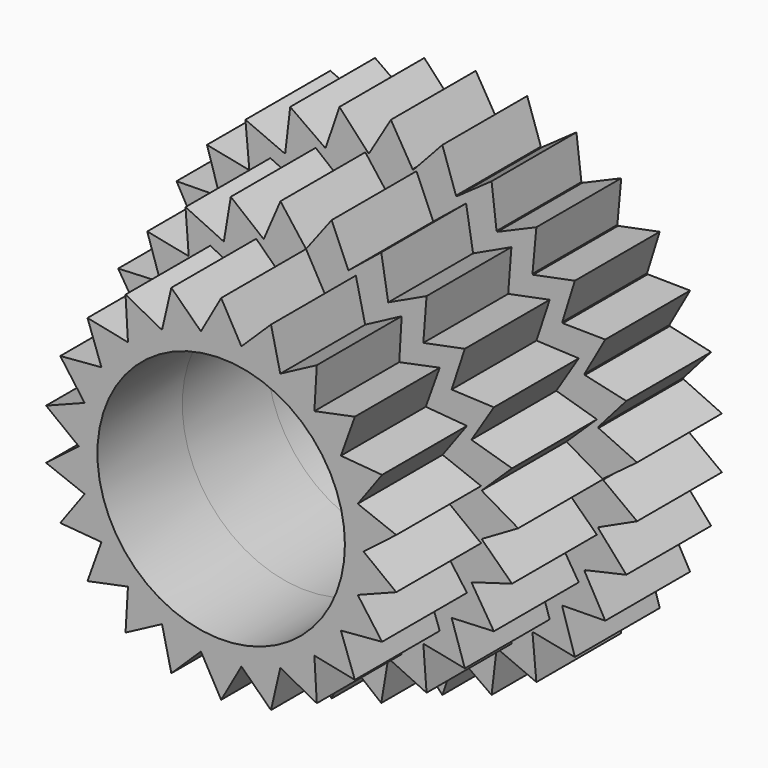
from build123d import *

# Parameters (mm, degrees)
F1_DEPTH = 3
F3_DEPTH = 3
F5_DEPTH = 3
F6_R     = 3.5
F7_DEPTH = 25


with BuildPart() as f1:
    # F0 (on Front) → F1 (new body)
    with BuildSketch(Plane.XZ):
        with BuildLine():
            ThreePointArc((5.9999838283, -0.0139305548), (5.9999959571, -0.0069652821), (6, 0))
            ThreePointArc((6, 0), (5.9999959571, 0.0069652821), (5.9999838283, 0.0139305548))
            ThreePointArc((5.9999838283, 0.0139305548), (5.9671313722, 0.6271707796), (5.8717661113, 1.2338406438))
            ThreePointArc((5.8717661113, 1.2338406438), (5.8688856044, 1.2474701449), (5.8659734609, 1.2610929214))
            ThreePointArc((5.8659734609, 1.2610929214), (5.7063390978, 1.8541019662), (5.4869240394, 2.4276870857))
            ThreePointArc((5.4869240394, 2.4276870857), (5.4812727459, 2.4404198585), (5.4755919051, 2.4531394759))
            ThreePointArc((5.4755919051, 2.4531394759), (5.1961524227, 3), (4.8622770577, 3.5154319527))
            ThreePointArc((4.8622770577, 3.5154319527), (4.8541019662, 3.5267115138), (4.8459007084, 3.5379720639))
            ThreePointArc((4.8459007084, 3.5379720639), (4.4588689529, 4.0147836382), (4.0251252369, 4.4495355743))
            ThreePointArc((4.0251252369, 4.4495355743), (4.0147836382, 4.4588689529), (4.0044203974, 4.4681782955))
            ThreePointArc((4.0044203974, 4.4681782955), (3.5267115138, 4.8541019662), (3.0120561285, 5.1891731402))
            ThreePointArc((3.0120561285, 5.1891731402), (3, 5.1961524227), (2.9879276998, 5.203103695))
            ThreePointArc((2.9879276998, 5.203103695), (2.4404198585, 5.4812727459), (1.8673457139, 5.7020189394))
            ThreePointArc((1.8673457139, 5.7020189394), (1.8541019662, 5.7063390978), (1.840848224, 5.7106284957))
            ThreePointArc((1.840848224, 5.7106284957), (1.2474701449, 5.8688856044), (0.641023331, 5.9656591496))
            ThreePointArc((0.641023331, 5.9656591496), (0.6271707796, 5.9671313722), (0.6133148474, 5.9685714286))
            ThreePointArc((0.6133148474, 5.9685714286), (0, 6), (-0.6133148474, 5.9685714286))
            ThreePointArc((-0.6133148474, 5.9685714286), (-0.6271707796, 5.9671313722), (-0.641023331, 5.9656591496))
            ThreePointArc((-0.641023331, 5.9656591496), (-1.2474701449, 5.8688856044), (-1.840848224, 5.7106284957))
            ThreePointArc((-1.840848224, 5.7106284957), (-1.8541019662, 5.7063390978), (-1.8673457139, 5.7020189394))
            ThreePointArc((-1.8673457139, 5.7020189394), (-2.4404198585, 5.4812727459), (-2.9879276998, 5.203103695))
            ThreePointArc((-2.9879276998, 5.203103695), (-3, 5.1961524227), (-3.0120561285, 5.1891731402))
            ThreePointArc((-3.0120561285, 5.1891731402), (-3.5267115138, 4.8541019662), (-4.0044203974, 4.4681782955))
            ThreePointArc((-4.0044203974, 4.4681782955), (-4.0147836382, 4.4588689529), (-4.0251252369, 4.4495355743))
            ThreePointArc((-4.0251252369, 4.4495355743), (-4.4588689529, 4.0147836382), (-4.8459007084, 3.5379720639))
            ThreePointArc((-4.8459007084, 3.5379720639), (-4.8541019662, 3.5267115138), (-4.8622770577, 3.5154319527))
            ThreePointArc((-4.8622770577, 3.5154319527), (-5.1961524227, 3), (-5.4755919051, 2.4531394759))
            ThreePointArc((-5.4755919051, 2.4531394759), (-5.4812727459, 2.4404198585), (-5.4869240394, 2.4276870857))
            ThreePointArc((-5.4869240394, 2.4276870857), (-5.7063390978, 1.8541019662), (-5.8659734609, 1.2610929214))
            ThreePointArc((-5.8659734609, 1.2610929214), (-5.8688856044, 1.2474701449), (-5.8717661113, 1.2338406438))
            ThreePointArc((-5.8717661113, 1.2338406438), (-5.9671313722, 0.6271707796), (-5.9999838283, 0.0139305548))
            ThreePointArc((-5.9999838283, 0.0139305548), (-6, 0), (-5.9999838283, -0.0139305548))
            ThreePointArc((-5.9999838283, -0.0139305548), (-5.9671313722, -0.6271707796), (-5.8717661113, -1.2338406438))
            ThreePointArc((-5.8717661113, -1.2338406438), (-5.8688856044, -1.2474701449), (-5.8659734609, -1.2610929214))
            ThreePointArc((-5.8659734609, -1.2610929214), (-5.7063390978, -1.8541019662), (-5.4869240394, -2.4276870857))
            ThreePointArc((-5.4869240394, -2.4276870857), (-5.4812727459, -2.4404198585), (-5.4755919051, -2.4531394759))
            ThreePointArc((-5.4755919051, -2.4531394759), (-5.1961524227, -3), (-4.8622770577, -3.5154319527))
            ThreePointArc((-4.8622770577, -3.5154319527), (-4.8541019662, -3.5267115138), (-4.8459007084, -3.5379720639))
            ThreePointArc((-4.8459007084, -3.5379720639), (-4.4588689529, -4.0147836382), (-4.0251252369, -4.4495355743))
            ThreePointArc((-4.0251252369, -4.4495355743), (-4.0147836382, -4.4588689529), (-4.0044203974, -4.4681782955))
            ThreePointArc((-4.0044203974, -4.4681782955), (-3.5267115138, -4.8541019662), (-3.0120561285, -5.1891731402))
            ThreePointArc((-3.0120561285, -5.1891731402), (-3, -5.1961524227), (-2.9879276998, -5.203103695))
            ThreePointArc((-2.9879276998, -5.203103695), (-2.4404198585, -5.4812727459), (-1.8673457139, -5.7020189394))
            ThreePointArc((-1.8673457139, -5.7020189394), (-1.8541019662, -5.7063390978), (-1.840848224, -5.7106284957))
            ThreePointArc((-1.840848224, -5.7106284957), (-1.2474701449, -5.8688856044), (-0.641023331, -5.9656591496))
            ThreePointArc((-0.641023331, -5.9656591496), (-0.6271707796, -5.9671313722), (-0.6133148474, -5.9685714286))
            ThreePointArc((-0.6133148474, -5.9685714286), (0, -6), (0.6133148474, -5.9685714286))
            ThreePointArc((0.6133148474, -5.9685714286), (0.6271707796, -5.9671313722), (0.641023331, -5.9656591496))
            ThreePointArc((0.641023331, -5.9656591496), (1.2474701449, -5.8688856044), (1.840848224, -5.7106284957))
            ThreePointArc((1.840848224, -5.7106284957), (1.8541019662, -5.7063390978), (1.8673457139, -5.7020189394))
            ThreePointArc((1.8673457139, -5.7020189394), (2.4404198585, -5.4812727459), (2.9879276998, -5.203103695))
            ThreePointArc((2.9879276998, -5.203103695), (3, -5.1961524227), (3.0120561285, -5.1891731402))
            ThreePointArc((3.0120561285, -5.1891731402), (3.5267115138, -4.8541019662), (4.0044203974, -4.4681782955))
            ThreePointArc((4.0044203974, -4.4681782955), (4.0147836382, -4.4588689529), (4.0251252369, -4.4495355743))
            ThreePointArc((4.0251252369, -4.4495355743), (4.4588689529, -4.0147836382), (4.8459007084, -3.5379720639))
            ThreePointArc((4.8459007084, -3.5379720639), (4.8541019662, -3.5267115138), (4.8622770577, -3.5154319527))
            ThreePointArc((4.8622770577, -3.5154319527), (5.1961524227, -3), (5.4755919051, -2.4531394759))
            ThreePointArc((5.4755919051, -2.4531394759), (5.4812727459, -2.4404198585), (5.4869240394, -2.4276870857))
            ThreePointArc((5.4869240394, -2.4276870857), (5.7063390978, -1.8541019662), (5.8659734609, -1.2610929214))
            ThreePointArc((5.8659734609, -1.2610929214), (5.8688856044, -1.2474701449), (5.8717661113, -1.2338406438))
            ThreePointArc((5.8717661113, -1.2338406438), (5.9671313722, -0.6271707796), (5.9999838283, -0.0139305548))
        make_face()
        with BuildLine():
            ThreePointArc((5.8717661113, 1.2338406438), (5.9671313722, 0.6271707796), (5.9999838283, 0.0139305548))
            Line((5.9999838283, 0.0139305548), (6.9616532676, 0.7316992429))
            Line((6.9616532676, 0.7316992429), (5.8717661113, 1.2338406438))
        make_face()
        with BuildLine():
            Line((6.9616532676, -0.7316992429), (5.9999838283, -0.0139305548))
            ThreePointArc((5.9999838283, -0.0139305548), (5.9671313722, -0.6271707796), (5.8717661113, -1.2338406438))
            Line((5.8717661113, -1.2338406438), (6.9616532676, -0.7316992429))
        make_face()
        with BuildLine():
            ThreePointArc((5.4869240394, 2.4276870857), (5.7063390978, 1.8541019662), (5.8659734609, 1.2610929214))
            Line((5.8659734609, 1.2610929214), (6.6573956141, 2.1631189606))
            Line((6.6573956141, 2.1631189606), (5.4869240394, 2.4276870857))
        make_face()
        with BuildLine():
            Line((6.6573956141, -2.1631189606), (5.8659734609, -1.2610929214))
            ThreePointArc((5.8659734609, -1.2610929214), (5.7063390978, -1.8541019662), (5.4869240394, -2.4276870857))
            Line((5.4869240394, -2.4276870857), (6.6573956141, -2.1631189606))
        make_face()
        with BuildLine():
            ThreePointArc((4.8622770577, 3.5154319527), (5.1961524227, 3), (5.4755919051, 2.4531394759))
            Line((5.4755919051, 2.4531394759), (6.0621778265, 3.5))
            Line((6.0621778265, 3.5), (4.8622770577, 3.5154319527))
        make_face()
        with BuildLine():
            Line((6.0621778265, -3.5), (5.4755919051, -2.4531394759))
            ThreePointArc((5.4755919051, -2.4531394759), (5.1961524227, -3), (4.8622770577, -3.5154319527))
            Line((4.8622770577, -3.5154319527), (6.0621778265, -3.5))
        make_face()
        with BuildLine():
            ThreePointArc((4.0251252369, 4.4495355743), (4.4588689529, 4.0147836382), (4.8459007084, 3.5379720639))
            Line((4.8459007084, 3.5379720639), (5.2020137783, 4.6839142445))
            Line((5.2020137783, 4.6839142445), (4.0251252369, 4.4495355743))
        make_face()
        with BuildLine():
            Line((5.2020137783, -4.6839142445), (4.8459007084, -3.5379720639))
            ThreePointArc((4.8459007084, -3.5379720639), (4.4588689529, -4.0147836382), (4.0251252369, -4.4495355743))
            Line((4.0251252369, -4.4495355743), (5.2020137783, -4.6839142445))
        make_face()
        with BuildLine():
            ThreePointArc((3.0120561285, 5.1891731402), (3.5267115138, 4.8541019662), (4.0044203974, 4.4681782955))
            Line((4.0044203974, 4.4681782955), (4.114496766, 5.6631189606))
            Line((4.114496766, 5.6631189606), (3.0120561285, 5.1891731402))
        make_face()
        with BuildLine():
            Line((4.114496766, -5.6631189606), (4.0044203974, -4.4681782955))
            ThreePointArc((4.0044203974, -4.4681782955), (3.5267115138, -4.8541019662), (3.0120561285, -5.1891731402))
            Line((3.0120561285, -5.1891731402), (4.114496766, -5.6631189606))
        make_face()
        with BuildLine():
            ThreePointArc((1.8673457139, 5.7020189394), (2.4404198585, 5.4812727459), (2.9879276998, 5.203103695))
            Line((2.9879276998, 5.203103695), (2.8471565015, 6.3948182035))
            Line((2.8471565015, 6.3948182035), (1.8673457139, 5.7020189394))
        make_face()
        with BuildLine():
            Line((2.8471565015, -6.3948182035), (2.9879276998, -5.203103695))
            ThreePointArc((2.9879276998, -5.203103695), (2.4404198585, -5.4812727459), (1.8673457139, -5.7020189394))
            Line((1.8673457139, -5.7020189394), (2.8471565015, -6.3948182035))
        make_face()
        with BuildLine():
            ThreePointArc((0.641023331, 5.9656591496), (1.2474701449, 5.8688856044), (1.840848224, 5.7106284957))
            Line((1.840848224, 5.7106284957), (1.4553818357, 6.8470332051))
            Line((1.4553818357, 6.8470332051), (0.641023331, 5.9656591496))
        make_face()
        with BuildLine():
            Line((1.4553818357, -6.8470332051), (1.840848224, -5.7106284957))
            ThreePointArc((1.840848224, -5.7106284957), (1.2474701449, -5.8688856044), (0.641023331, -5.9656591496))
            Line((0.641023331, -5.9656591496), (1.4553818357, -6.8470332051))
        make_face()
        with BuildLine():
            ThreePointArc((-0.6133148474, 5.9685714286), (0, 6), (0.6133148474, 5.9685714286))
            Line((0.6133148474, 5.9685714286), (0, 7))
            Line((0, 7), (-0.6133148474, 5.9685714286))
        make_face()
        with BuildLine():
            Line((0, -7), (0.6133148474, -5.9685714286))
            ThreePointArc((0.6133148474, -5.9685714286), (0, -6), (-0.6133148474, -5.9685714286))
            Line((-0.6133148474, -5.9685714286), (0, -7))
        make_face()
        with BuildLine():
            ThreePointArc((-1.840848224, 5.7106284957), (-1.2474701449, 5.8688856044), (-0.641023331, 5.9656591496))
            Line((-0.641023331, 5.9656591496), (-1.4553818357, 6.8470332051))
            Line((-1.4553818357, 6.8470332051), (-1.840848224, 5.7106284957))
        make_face()
        with BuildLine():
            Line((-1.4553818357, -6.8470332051), (-0.641023331, -5.9656591496))
            ThreePointArc((-0.641023331, -5.9656591496), (-1.2474701449, -5.8688856044), (-1.840848224, -5.7106284957))
            Line((-1.840848224, -5.7106284957), (-1.4553818357, -6.8470332051))
        make_face()
        with BuildLine():
            ThreePointArc((-2.9879276998, 5.203103695), (-2.4404198585, 5.4812727459), (-1.8673457139, 5.7020189394))
            Line((-1.8673457139, 5.7020189394), (-2.8471565015, 6.3948182035))
            Line((-2.8471565015, 6.3948182035), (-2.9879276998, 5.203103695))
        make_face()
        with BuildLine():
            Line((-2.8471565015, -6.3948182035), (-1.8673457139, -5.7020189394))
            ThreePointArc((-1.8673457139, -5.7020189394), (-2.4404198585, -5.4812727459), (-2.9879276998, -5.203103695))
            Line((-2.9879276998, -5.203103695), (-2.8471565015, -6.3948182035))
        make_face()
        with BuildLine():
            ThreePointArc((-4.0044203974, 4.4681782955), (-3.5267115138, 4.8541019662), (-3.0120561285, 5.1891731402))
            Line((-3.0120561285, 5.1891731402), (-4.114496766, 5.6631189606))
            Line((-4.114496766, 5.6631189606), (-4.0044203974, 4.4681782955))
        make_face()
        with BuildLine():
            Line((-4.114496766, -5.6631189606), (-3.0120561285, -5.1891731402))
            ThreePointArc((-3.0120561285, -5.1891731402), (-3.5267115138, -4.8541019662), (-4.0044203974, -4.4681782955))
            Line((-4.0044203974, -4.4681782955), (-4.114496766, -5.6631189606))
        make_face()
        with BuildLine():
            ThreePointArc((-4.8459007084, 3.5379720639), (-4.4588689529, 4.0147836382), (-4.0251252369, 4.4495355743))
            Line((-4.0251252369, 4.4495355743), (-5.2020137783, 4.6839142445))
            Line((-5.2020137783, 4.6839142445), (-4.8459007084, 3.5379720639))
        make_face()
        with BuildLine():
            Line((-5.2020137783, -4.6839142445), (-4.0251252369, -4.4495355743))
            ThreePointArc((-4.0251252369, -4.4495355743), (-4.4588689529, -4.0147836382), (-4.8459007084, -3.5379720639))
            Line((-4.8459007084, -3.5379720639), (-5.2020137783, -4.6839142445))
        make_face()
        with BuildLine():
            ThreePointArc((-5.4755919051, 2.4531394759), (-5.1961524227, 3), (-4.8622770577, 3.5154319527))
            Line((-4.8622770577, 3.5154319527), (-6.0621778265, 3.5))
            Line((-6.0621778265, 3.5), (-5.4755919051, 2.4531394759))
        make_face()
        with BuildLine():
            Line((-6.0621778265, -3.5), (-4.8622770577, -3.5154319527))
            ThreePointArc((-4.8622770577, -3.5154319527), (-5.1961524227, -3), (-5.4755919051, -2.4531394759))
            Line((-5.4755919051, -2.4531394759), (-6.0621778265, -3.5))
        make_face()
        with BuildLine():
            ThreePointArc((-5.8659734609, 1.2610929214), (-5.7063390978, 1.8541019662), (-5.4869240394, 2.4276870857))
            Line((-5.4869240394, 2.4276870857), (-6.6573956141, 2.1631189606))
            Line((-6.6573956141, 2.1631189606), (-5.8659734609, 1.2610929214))
        make_face()
        with BuildLine():
            Line((-6.6573956141, -2.1631189606), (-5.4869240394, -2.4276870857))
            ThreePointArc((-5.4869240394, -2.4276870857), (-5.7063390978, -1.8541019662), (-5.8659734609, -1.2610929214))
            Line((-5.8659734609, -1.2610929214), (-6.6573956141, -2.1631189606))
        make_face()
        with BuildLine():
            ThreePointArc((-5.9999838283, 0.0139305548), (-5.9671313722, 0.6271707796), (-5.8717661113, 1.2338406438))
            Line((-5.8717661113, 1.2338406438), (-6.9616532676, 0.7316992429))
            Line((-6.9616532676, 0.7316992429), (-5.9999838283, 0.0139305548))
        make_face()
        with BuildLine():
            Line((-6.9616532676, -0.7316992429), (-5.8717661113, -1.2338406438))
            ThreePointArc((-5.8717661113, -1.2338406438), (-5.9671313722, -0.6271707796), (-5.9999838283, -0.0139305548))
            Line((-5.9999838283, -0.0139305548), (-6.9616532676, -0.7316992429))
        make_face()
    extrude(amount=F1_DEPTH)


with BuildPart() as f3:
    # F2 (on face) → F3 (new body)
    with BuildSketch(Plane.XZ.offset(3)):
        with BuildLine():
            ThreePointArc((4.9637548008, 0.600947816), (4.9909304746, 0.3010199296), (5, 0))
            ThreePointArc((5, 0), (4.9909304746, -0.3010199296), (4.9637548008, -0.600947816))
            Line((4.9637548008, -0.600947816), (4.9658333039, -0.6029613281))
            Line((4.9658333039, -0.6029613281), (6, 0))
            Line((6, 0), (4.9658333039, 0.6029613281))
            Line((4.9658333039, 0.6029613281), (4.9637548008, 0.600947816))
        make_face()
        with BuildLine():
            ThreePointArc((4.9633333333, 0.6044189129), (4.9635443705, 0.6026834013), (4.9637548008, 0.600947816))
            Line((4.9637548008, 0.600947816), (4.9658333039, 0.6029613281))
            Line((4.9658333039, 0.6029613281), (4.9633333333, 0.6044189129))
        make_face()
        with BuildLine():
            Line((4.9658333039, -0.6029613281), (4.9637548008, -0.600947816))
            ThreePointArc((4.9637548008, -0.600947816), (4.9635443705, -0.6026834013), (4.9633333333, -0.6044189129))
            Line((4.9633333333, -0.6044189129), (4.9658333039, -0.6029613281))
        make_face()
        with BuildLine():
            ThreePointArc((4.6757008818, 1.7713896422), (4.8547090871, 1.1965783214), (4.9633333333, 0.6044189129))
            Line((4.9633333333, 0.6044189129), (4.9658333039, 0.6029613281))
            Line((4.9658333039, 0.6029613281), (5.8256509046, 1.4358939857))
            Line((5.8256509046, 1.4358939857), (4.6772371224, 1.7738420636))
            Line((4.6772371224, 1.7738420636), (4.6757008818, 1.7713896422))
        make_face()
        with BuildLine():
            Line((4.9658333039, -0.6029613281), (4.9633333333, -0.6044189129))
            ThreePointArc((4.9633333333, -0.6044189129), (4.8547090871, -1.1965783214), (4.6757008818, -1.7713896422))
            Line((4.6757008818, -1.7713896422), (4.6772371224, -1.7738420636))
            Line((4.6772371224, -1.7738420636), (5.8256509046, -1.4358939857))
            Line((5.8256509046, -1.4358939857), (4.9658333039, -0.6029613281))
        make_face()
        with BuildLine():
            ThreePointArc((4.6744609735, 1.7746590115), (4.6750812134, 1.7730244352), (4.6757008818, 1.7713896422))
            Line((4.6757008818, 1.7713896422), (4.6772371224, 1.7738420636))
            Line((4.6772371224, 1.7738420636), (4.6744609735, 1.7746590115))
        make_face()
        with BuildLine():
            Line((4.6772371224, -1.7738420636), (4.6757008818, -1.7713896422))
            ThreePointArc((4.6757008818, -1.7713896422), (4.6750812134, -1.7730244352), (4.6744609735, -1.7746590115))
            Line((4.6744609735, -1.7746590115), (4.6772371224, -1.7738420636))
        make_face()
        with BuildLine():
            ThreePointArc((4.1159122229, 2.8388847411), (4.4272801283, 2.3236158602), (4.6744609735, 1.7746590115))
            Line((4.6744609735, 1.7746590115), (4.6772371224, 1.7738420636))
            Line((4.6772371224, 1.7738420636), (5.3127361539, 2.7883390323))
            Line((5.3127361539, 2.7883390323), (4.1168169203, 2.8416335461))
            Line((4.1168169203, 2.8416335461), (4.1159122229, 2.8388847411))
        make_face()
        with BuildLine():
            Line((4.6772371224, -1.7738420636), (4.6744609735, -1.7746590115))
            ThreePointArc((4.6744609735, -1.7746590115), (4.4272801283, -2.3236158602), (4.1159122229, -2.8388847411))
            Line((4.1159122229, -2.8388847411), (4.1168169203, -2.8416335461))
            Line((4.1168169203, -2.8416335461), (5.3127361539, -2.7883390323))
            Line((5.3127361539, -2.7883390323), (4.6772371224, -1.7738420636))
        make_face()
        with BuildLine():
            ThreePointArc((4.1139259329, 2.841762379), (4.1149193295, 2.8403237337), (4.1159122229, 2.8388847411))
            Line((4.1159122229, 2.8388847411), (4.1168169203, 2.8416335461))
            Line((4.1168169203, 2.8416335461), (4.1139259329, 2.841762379))
        make_face()
        with BuildLine():
            Line((4.1168169203, -2.8416335461), (4.1159122229, -2.8388847411))
            ThreePointArc((4.1159122229, -2.8388847411), (4.1149193295, -2.8403237337), (4.1139259329, -2.841762379))
            Line((4.1139259329, -2.841762379), (4.1168169203, -2.8416335461))
        make_face()
        with BuildLine():
            ThreePointArc((3.3169217065, 3.7413941777), (3.7425537409, 3.3156132912), (4.1139259329, 2.841762379))
            Line((4.1139259329, 2.841762379), (4.1168169203, 2.8416335461))
            Line((4.1168169203, 2.8416335461), (4.491064489, 3.9787359494))
            Line((4.491064489, 3.9787359494), (3.3171422829, 3.7442796157))
            Line((3.3171422829, 3.7442796157), (3.3169217065, 3.7413941777))
        make_face()
        with BuildLine():
            Line((4.1168169203, -2.8416335461), (4.1139259329, -2.841762379))
            ThreePointArc((4.1139259329, -2.841762379), (3.7425537409, -3.3156132912), (3.3169217065, -3.7413941777))
            Line((3.3169217065, -3.7413941777), (3.3171422829, -3.7442796157))
            Line((3.3171422829, -3.7442796157), (4.491064489, -3.9787359494))
            Line((4.491064489, -3.9787359494), (4.1168169203, -2.8416335461))
        make_face()
        with BuildLine():
            ThreePointArc((3.3143044706, 3.7437128464), (3.3156132912, 3.7425537409), (3.3169217065, 3.7413941777))
            Line((3.3169217065, 3.7413941777), (3.3171422829, 3.7442796157))
            Line((3.3171422829, 3.7442796157), (3.3143044706, 3.7437128464))
        make_face()
        with BuildLine():
            Line((3.3171422829, -3.7442796157), (3.3169217065, -3.7413941777))
            ThreePointArc((3.3169217065, -3.7413941777), (3.3156132912, -3.7425537409), (3.3143044706, -3.7437128464))
            Line((3.3143044706, -3.7437128464), (3.3171422829, -3.7442796157))
        make_face()
        with BuildLine():
            ThreePointArc((2.3251637569, 4.4264673842), (2.8403237337, 4.1149193295), (3.3143044706, 3.7437128464))
            Line((3.3143044706, 3.7437128464), (3.3171422829, 3.7442796157))
            Line((3.3171422829, 3.7442796157), (3.4083884804, 4.9379031954))
            Line((3.4083884804, 4.9379031954), (2.3246873933, 4.429321764))
            Line((2.3246873933, 4.429321764), (2.3251637569, 4.4264673842))
        make_face()
        with BuildLine():
            Line((3.3171422829, -3.7442796157), (3.3143044706, -3.7437128464))
            ThreePointArc((3.3143044706, -3.7437128464), (2.8403237337, -4.1149193295), (2.3251637569, -4.4264673842))
            Line((2.3251637569, -4.4264673842), (2.3246873933, -4.429321764))
            Line((2.3246873933, -4.429321764), (3.4083884804, -4.9379031954))
            Line((3.4083884804, -4.9379031954), (3.3171422829, -3.7442796157))
        make_face()
        with BuildLine():
            ThreePointArc((2.3220676794, 4.428092331), (2.3236158602, 4.4272801283), (2.3251637569, 4.4264673842))
            Line((2.3251637569, 4.4264673842), (2.3246873933, 4.429321764))
            Line((2.3246873933, 4.429321764), (2.3220676794, 4.428092331))
        make_face()
        with BuildLine():
            Line((2.3246873933, -4.429321764), (2.3251637569, -4.4264673842))
            ThreePointArc((2.3251637569, -4.4264673842), (2.3236158602, -4.4272801283), (2.3220676794, -4.428092331))
            Line((2.3220676794, -4.428092331), (2.3246873933, -4.429321764))
        make_face()
        with BuildLine():
            ThreePointArc((1.1982757415, 4.8542903959), (1.7730244352, 4.6750812134), (2.3220676794, 4.428092331))
            Line((2.3220676794, 4.428092331), (2.3246873933, 4.429321764))
            Line((2.3246873933, 4.429321764), (2.1276293223, 5.6100974561))
            Line((2.1276293223, 5.6100974561), (1.1971301223, 4.8569478313))
            Line((1.1971301223, 4.8569478313), (1.1982757415, 4.8542903959))
        make_face()
        with BuildLine():
            Line((2.3246873933, -4.429321764), (2.3220676794, -4.428092331))
            ThreePointArc((2.3220676794, -4.428092331), (1.7730244352, -4.6750812134), (1.1982757415, -4.8542903959))
            Line((1.1982757415, -4.8542903959), (1.1971301223, -4.8569478313))
            Line((1.1971301223, -4.8569478313), (2.1276293223, -5.6100974561))
            Line((2.1276293223, -5.6100974561), (2.3246873933, -4.429321764))
        make_face()
        with BuildLine():
            ThreePointArc((1.1948807551, 4.8551271848), (1.1965783214, 4.8547090871), (1.1982757415, 4.8542903959))
            Line((1.1982757415, 4.8542903959), (1.1971301223, 4.8569478313))
            Line((1.1971301223, 4.8569478313), (1.1948807551, 4.8551271848))
        make_face()
        with BuildLine():
            Line((1.1971301223, -4.8569478313), (1.1982757415, -4.8542903959))
            ThreePointArc((1.1982757415, -4.8542903959), (1.1965783214, -4.8547090871), (1.1948807551, -4.8551271848))
            Line((1.1948807551, -4.8551271848), (1.1971301223, -4.8569478313))
        make_face()
        with BuildLine():
            ThreePointArc((0.0017482955, 4.9999996943), (0.6026834013, 4.9635443705), (1.1948807551, 4.8551271848))
            Line((1.1948807551, 4.8551271848), (1.1971301223, 4.8569478313))
            Line((1.1971301223, 4.8569478313), (0.7232200815, 5.9562532446))
            Line((0.7232200815, 5.9562532446), (0, 5.0023057449))
            Line((0, 5.0023057449), (0.0017482955, 4.9999996943))
        make_face()
        with BuildLine():
            Line((1.1971301223, -4.8569478313), (1.1948807551, -4.8551271848))
            ThreePointArc((1.1948807551, -4.8551271848), (0.6026834013, -4.9635443705), (0.0017482955, -4.9999996943))
            Line((0.0017482955, -4.9999996943), (0, -5.0023057449))
            Line((0, -5.0023057449), (0.7232200815, -5.9562532446))
            Line((0.7232200815, -5.9562532446), (1.1971301223, -4.8569478313))
        make_face()
        with BuildLine():
            ThreePointArc((-0.0017482955, 4.9999996943), (0, 5), (0.0017482955, 4.9999996943))
            Line((0.0017482955, 4.9999996943), (0, 5.0023057449))
            Line((0, 5.0023057449), (-0.0017482955, 4.9999996943))
        make_face()
        with BuildLine():
            Line((0, -5.0023057449), (0.0017482955, -4.9999996943))
            ThreePointArc((0.0017482955, -4.9999996943), (0, -5), (-0.0017482955, -4.9999996943))
            Line((-0.0017482955, -4.9999996943), (0, -5.0023057449))
        make_face()
        with BuildLine():
            ThreePointArc((-1.1948807551, 4.8551271848), (-0.6026834013, 4.9635443705), (-0.0017482955, 4.9999996943))
            Line((-0.0017482955, 4.9999996943), (0, 5.0023057449))
            Line((0, 5.0023057449), (-0.7232200815, 5.9562532446))
            Line((-0.7232200815, 5.9562532446), (-1.1971301223, 4.8569478313))
            Line((-1.1971301223, 4.8569478313), (-1.1948807551, 4.8551271848))
        make_face()
        with BuildLine():
            Line((0, -5.0023057449), (-0.0017482955, -4.9999996943))
            ThreePointArc((-0.0017482955, -4.9999996943), (-0.6026834013, -4.9635443705), (-1.1948807551, -4.8551271848))
            Line((-1.1948807551, -4.8551271848), (-1.1971301223, -4.8569478313))
            Line((-1.1971301223, -4.8569478313), (-0.7232200815, -5.9562532446))
            Line((-0.7232200815, -5.9562532446), (0, -5.0023057449))
        make_face()
        with BuildLine():
            ThreePointArc((-1.1982757415, 4.8542903959), (-1.1965783214, 4.8547090871), (-1.1948807551, 4.8551271848))
            Line((-1.1948807551, 4.8551271848), (-1.1971301223, 4.8569478313))
            Line((-1.1971301223, 4.8569478313), (-1.1982757415, 4.8542903959))
        make_face()
        with BuildLine():
            Line((-1.1971301223, -4.8569478313), (-1.1948807551, -4.8551271848))
            ThreePointArc((-1.1948807551, -4.8551271848), (-1.1965783214, -4.8547090871), (-1.1982757415, -4.8542903959))
            Line((-1.1982757415, -4.8542903959), (-1.1971301223, -4.8569478313))
        make_face()
        with BuildLine():
            ThreePointArc((-2.3220676794, 4.428092331), (-1.7730244352, 4.6750812134), (-1.1982757415, 4.8542903959))
            Line((-1.1982757415, 4.8542903959), (-1.1971301223, 4.8569478313))
            Line((-1.1971301223, 4.8569478313), (-2.1276293223, 5.6100974561))
            Line((-2.1276293223, 5.6100974561), (-2.3246873933, 4.429321764))
            Line((-2.3246873933, 4.429321764), (-2.3220676794, 4.428092331))
        make_face()
        with BuildLine():
            Line((-1.1971301223, -4.8569478313), (-1.1982757415, -4.8542903959))
            ThreePointArc((-1.1982757415, -4.8542903959), (-1.7730244352, -4.6750812134), (-2.3220676794, -4.428092331))
            Line((-2.3220676794, -4.428092331), (-2.3246873933, -4.429321764))
            Line((-2.3246873933, -4.429321764), (-2.1276293223, -5.6100974561))
            Line((-2.1276293223, -5.6100974561), (-1.1971301223, -4.8569478313))
        make_face()
        with BuildLine():
            ThreePointArc((-2.3251637569, 4.4264673842), (-2.3236158602, 4.4272801283), (-2.3220676794, 4.428092331))
            Line((-2.3220676794, 4.428092331), (-2.3246873933, 4.429321764))
            Line((-2.3246873933, 4.429321764), (-2.3251637569, 4.4264673842))
        make_face()
        with BuildLine():
            Line((-2.3246873933, -4.429321764), (-2.3220676794, -4.428092331))
            ThreePointArc((-2.3220676794, -4.428092331), (-2.3236158602, -4.4272801283), (-2.3251637569, -4.4264673842))
            Line((-2.3251637569, -4.4264673842), (-2.3246873933, -4.429321764))
        make_face()
        with BuildLine():
            ThreePointArc((-3.3143044706, 3.7437128464), (-2.8403237337, 4.1149193295), (-2.3251637569, 4.4264673842))
            Line((-2.3251637569, 4.4264673842), (-2.3246873933, 4.429321764))
            Line((-2.3246873933, 4.429321764), (-3.4083884804, 4.9379031954))
            Line((-3.4083884804, 4.9379031954), (-3.3171422829, 3.7442796157))
            Line((-3.3171422829, 3.7442796157), (-3.3143044706, 3.7437128464))
        make_face()
        with BuildLine():
            Line((-2.3246873933, -4.429321764), (-2.3251637569, -4.4264673842))
            ThreePointArc((-2.3251637569, -4.4264673842), (-2.8403237337, -4.1149193295), (-3.3143044706, -3.7437128464))
            Line((-3.3143044706, -3.7437128464), (-3.3171422829, -3.7442796157))
            Line((-3.3171422829, -3.7442796157), (-3.4083884804, -4.9379031954))
            Line((-3.4083884804, -4.9379031954), (-2.3246873933, -4.429321764))
        make_face()
        with BuildLine():
            ThreePointArc((-3.3169217065, 3.7413941777), (-3.3156132912, 3.7425537409), (-3.3143044706, 3.7437128464))
            Line((-3.3143044706, 3.7437128464), (-3.3171422829, 3.7442796157))
            Line((-3.3171422829, 3.7442796157), (-3.3169217065, 3.7413941777))
        make_face()
        with BuildLine():
            Line((-3.3171422829, -3.7442796157), (-3.3143044706, -3.7437128464))
            ThreePointArc((-3.3143044706, -3.7437128464), (-3.3156132912, -3.7425537409), (-3.3169217065, -3.7413941777))
            Line((-3.3169217065, -3.7413941777), (-3.3171422829, -3.7442796157))
        make_face()
        with BuildLine():
            ThreePointArc((-4.1139259329, 2.841762379), (-3.7425537409, 3.3156132912), (-3.3169217065, 3.7413941777))
            Line((-3.3169217065, 3.7413941777), (-3.3171422829, 3.7442796157))
            Line((-3.3171422829, 3.7442796157), (-4.491064489, 3.9787359494))
            Line((-4.491064489, 3.9787359494), (-4.1168169203, 2.8416335461))
            Line((-4.1168169203, 2.8416335461), (-4.1139259329, 2.841762379))
        make_face()
        with BuildLine():
            Line((-3.3171422829, -3.7442796157), (-3.3169217065, -3.7413941777))
            ThreePointArc((-3.3169217065, -3.7413941777), (-3.7425537409, -3.3156132912), (-4.1139259329, -2.841762379))
            Line((-4.1139259329, -2.841762379), (-4.1168169203, -2.8416335461))
            Line((-4.1168169203, -2.8416335461), (-4.491064489, -3.9787359494))
            Line((-4.491064489, -3.9787359494), (-3.3171422829, -3.7442796157))
        make_face()
        with BuildLine():
            ThreePointArc((-4.1159122229, 2.8388847411), (-4.1149193295, 2.8403237337), (-4.1139259329, 2.841762379))
            Line((-4.1139259329, 2.841762379), (-4.1168169203, 2.8416335461))
            Line((-4.1168169203, 2.8416335461), (-4.1159122229, 2.8388847411))
        make_face()
        with BuildLine():
            Line((-4.1168169203, -2.8416335461), (-4.1139259329, -2.841762379))
            ThreePointArc((-4.1139259329, -2.841762379), (-4.1149193295, -2.8403237337), (-4.1159122229, -2.8388847411))
            Line((-4.1159122229, -2.8388847411), (-4.1168169203, -2.8416335461))
        make_face()
        with BuildLine():
            ThreePointArc((-4.6744609735, 1.7746590115), (-4.4272801283, 2.3236158602), (-4.1159122229, 2.8388847411))
            Line((-4.1159122229, 2.8388847411), (-4.1168169203, 2.8416335461))
            Line((-4.1168169203, 2.8416335461), (-5.3127361539, 2.7883390323))
            Line((-5.3127361539, 2.7883390323), (-4.6772371224, 1.7738420636))
            Line((-4.6772371224, 1.7738420636), (-4.6744609735, 1.7746590115))
        make_face()
        with BuildLine():
            Line((-4.1168169203, -2.8416335461), (-4.1159122229, -2.8388847411))
            ThreePointArc((-4.1159122229, -2.8388847411), (-4.4272801283, -2.3236158602), (-4.6744609735, -1.7746590115))
            Line((-4.6744609735, -1.7746590115), (-4.6772371224, -1.7738420636))
            Line((-4.6772371224, -1.7738420636), (-5.3127361539, -2.7883390323))
            Line((-5.3127361539, -2.7883390323), (-4.1168169203, -2.8416335461))
        make_face()
        with BuildLine():
            ThreePointArc((-4.6757008818, 1.7713896422), (-4.6750812134, 1.7730244352), (-4.6744609735, 1.7746590115))
            Line((-4.6744609735, 1.7746590115), (-4.6772371224, 1.7738420636))
            Line((-4.6772371224, 1.7738420636), (-4.6757008818, 1.7713896422))
        make_face()
        with BuildLine():
            Line((-4.6772371224, -1.7738420636), (-4.6744609735, -1.7746590115))
            ThreePointArc((-4.6744609735, -1.7746590115), (-4.6750812134, -1.7730244352), (-4.6757008818, -1.7713896422))
            Line((-4.6757008818, -1.7713896422), (-4.6772371224, -1.7738420636))
        make_face()
        with BuildLine():
            ThreePointArc((-4.9633333333, 0.6044189129), (-4.8547090871, 1.1965783214), (-4.6757008818, 1.7713896422))
            Line((-4.6757008818, 1.7713896422), (-4.6772371224, 1.7738420636))
            Line((-4.6772371224, 1.7738420636), (-5.8256509046, 1.4358939857))
            Line((-5.8256509046, 1.4358939857), (-4.9658333039, 0.6029613281))
            Line((-4.9658333039, 0.6029613281), (-4.9633333333, 0.6044189129))
        make_face()
        with BuildLine():
            Line((-4.6772371224, -1.7738420636), (-4.6757008818, -1.7713896422))
            ThreePointArc((-4.6757008818, -1.7713896422), (-4.8547090871, -1.1965783214), (-4.9633333333, -0.6044189129))
            Line((-4.9633333333, -0.6044189129), (-4.9658333039, -0.6029613281))
            Line((-4.9658333039, -0.6029613281), (-5.8256509046, -1.4358939857))
            Line((-5.8256509046, -1.4358939857), (-4.6772371224, -1.7738420636))
        make_face()
        with BuildLine():
            ThreePointArc((-4.9637548008, 0.600947816), (-4.9635443705, 0.6026834013), (-4.9633333333, 0.6044189129))
            Line((-4.9633333333, 0.6044189129), (-4.9658333039, 0.6029613281))
            Line((-4.9658333039, 0.6029613281), (-4.9637548008, 0.600947816))
        make_face()
        with BuildLine():
            Line((-4.9658333039, -0.6029613281), (-4.9633333333, -0.6044189129))
            ThreePointArc((-4.9633333333, -0.6044189129), (-4.9635443705, -0.6026834013), (-4.9637548008, -0.600947816))
            Line((-4.9637548008, -0.600947816), (-4.9658333039, -0.6029613281))
        make_face()
        with BuildLine():
            ThreePointArc((-4.9637548008, -0.600947816), (-5, 0), (-4.9637548008, 0.600947816))
            Line((-4.9637548008, 0.600947816), (-4.9658333039, 0.6029613281))
            Line((-4.9658333039, 0.6029613281), (-6, 0))
            Line((-6, 0), (-4.9658333039, -0.6029613281))
            Line((-4.9658333039, -0.6029613281), (-4.9637548008, -0.600947816))
        make_face()
        with BuildLine():
            ThreePointArc((4.9637548008, -0.600947816), (4.9909304746, -0.3010199296), (5, 0))
            ThreePointArc((5, 0), (4.9909304746, 0.3010199296), (4.9637548008, 0.600947816))
            ThreePointArc((4.9637548008, 0.600947816), (4.9635443705, 0.6026834013), (4.9633333333, 0.6044189129))
            ThreePointArc((4.9633333333, 0.6044189129), (4.8547090871, 1.1965783214), (4.6757008818, 1.7713896422))
            ThreePointArc((4.6757008818, 1.7713896422), (4.6750812134, 1.7730244352), (4.6744609735, 1.7746590115))
            ThreePointArc((4.6744609735, 1.7746590115), (4.4272801283, 2.3236158602), (4.1159122229, 2.8388847411))
            ThreePointArc((4.1159122229, 2.8388847411), (4.1149193295, 2.8403237337), (4.1139259329, 2.841762379))
            ThreePointArc((4.1139259329, 2.841762379), (3.7425537409, 3.3156132912), (3.3169217065, 3.7413941777))
            ThreePointArc((3.3169217065, 3.7413941777), (3.3156132912, 3.7425537409), (3.3143044706, 3.7437128464))
            ThreePointArc((3.3143044706, 3.7437128464), (2.8403237337, 4.1149193295), (2.3251637569, 4.4264673842))
            ThreePointArc((2.3251637569, 4.4264673842), (2.3236158602, 4.4272801283), (2.3220676794, 4.428092331))
            ThreePointArc((2.3220676794, 4.428092331), (1.7730244352, 4.6750812134), (1.1982757415, 4.8542903959))
            ThreePointArc((1.1982757415, 4.8542903959), (1.1965783214, 4.8547090871), (1.1948807551, 4.8551271848))
            ThreePointArc((1.1948807551, 4.8551271848), (0.6026834013, 4.9635443705), (0.0017482955, 4.9999996943))
            ThreePointArc((0.0017482955, 4.9999996943), (0, 5), (-0.0017482955, 4.9999996943))
            ThreePointArc((-0.0017482955, 4.9999996943), (-0.6026834013, 4.9635443705), (-1.1948807551, 4.8551271848))
            ThreePointArc((-1.1948807551, 4.8551271848), (-1.1965783214, 4.8547090871), (-1.1982757415, 4.8542903959))
            ThreePointArc((-1.1982757415, 4.8542903959), (-1.7730244352, 4.6750812134), (-2.3220676794, 4.428092331))
            ThreePointArc((-2.3220676794, 4.428092331), (-2.3236158602, 4.4272801283), (-2.3251637569, 4.4264673842))
            ThreePointArc((-2.3251637569, 4.4264673842), (-2.8403237337, 4.1149193295), (-3.3143044706, 3.7437128464))
            ThreePointArc((-3.3143044706, 3.7437128464), (-3.3156132912, 3.7425537409), (-3.3169217065, 3.7413941777))
            ThreePointArc((-3.3169217065, 3.7413941777), (-3.7425537409, 3.3156132912), (-4.1139259329, 2.841762379))
            ThreePointArc((-4.1139259329, 2.841762379), (-4.1149193295, 2.8403237337), (-4.1159122229, 2.8388847411))
            ThreePointArc((-4.1159122229, 2.8388847411), (-4.4272801283, 2.3236158602), (-4.6744609735, 1.7746590115))
            ThreePointArc((-4.6744609735, 1.7746590115), (-4.6750812134, 1.7730244352), (-4.6757008818, 1.7713896422))
            ThreePointArc((-4.6757008818, 1.7713896422), (-4.8547090871, 1.1965783214), (-4.9633333333, 0.6044189129))
            ThreePointArc((-4.9633333333, 0.6044189129), (-4.9635443705, 0.6026834013), (-4.9637548008, 0.600947816))
            ThreePointArc((-4.9637548008, 0.600947816), (-5, 0), (-4.9637548008, -0.600947816))
            ThreePointArc((-4.9637548008, -0.600947816), (-4.9635443705, -0.6026834013), (-4.9633333333, -0.6044189129))
            ThreePointArc((-4.9633333333, -0.6044189129), (-4.8547090871, -1.1965783214), (-4.6757008818, -1.7713896422))
            ThreePointArc((-4.6757008818, -1.7713896422), (-4.6750812134, -1.7730244352), (-4.6744609735, -1.7746590115))
            ThreePointArc((-4.6744609735, -1.7746590115), (-4.4272801283, -2.3236158602), (-4.1159122229, -2.8388847411))
            ThreePointArc((-4.1159122229, -2.8388847411), (-4.1149193295, -2.8403237337), (-4.1139259329, -2.841762379))
            ThreePointArc((-4.1139259329, -2.841762379), (-3.7425537409, -3.3156132912), (-3.3169217065, -3.7413941777))
            ThreePointArc((-3.3169217065, -3.7413941777), (-3.3156132912, -3.7425537409), (-3.3143044706, -3.7437128464))
            ThreePointArc((-3.3143044706, -3.7437128464), (-2.8403237337, -4.1149193295), (-2.3251637569, -4.4264673842))
            ThreePointArc((-2.3251637569, -4.4264673842), (-2.3236158602, -4.4272801283), (-2.3220676794, -4.428092331))
            ThreePointArc((-2.3220676794, -4.428092331), (-1.7730244352, -4.6750812134), (-1.1982757415, -4.8542903959))
            ThreePointArc((-1.1982757415, -4.8542903959), (-1.1965783214, -4.8547090871), (-1.1948807551, -4.8551271848))
            ThreePointArc((-1.1948807551, -4.8551271848), (-0.6026834013, -4.9635443705), (-0.0017482955, -4.9999996943))
            ThreePointArc((-0.0017482955, -4.9999996943), (0, -5), (0.0017482955, -4.9999996943))
            ThreePointArc((0.0017482955, -4.9999996943), (0.6026834013, -4.9635443705), (1.1948807551, -4.8551271848))
            ThreePointArc((1.1948807551, -4.8551271848), (1.1965783214, -4.8547090871), (1.1982757415, -4.8542903959))
            ThreePointArc((1.1982757415, -4.8542903959), (1.7730244352, -4.6750812134), (2.3220676794, -4.428092331))
            ThreePointArc((2.3220676794, -4.428092331), (2.3236158602, -4.4272801283), (2.3251637569, -4.4264673842))
            ThreePointArc((2.3251637569, -4.4264673842), (2.8403237337, -4.1149193295), (3.3143044706, -3.7437128464))
            ThreePointArc((3.3143044706, -3.7437128464), (3.3156132912, -3.7425537409), (3.3169217065, -3.7413941777))
            ThreePointArc((3.3169217065, -3.7413941777), (3.7425537409, -3.3156132912), (4.1139259329, -2.841762379))
            ThreePointArc((4.1139259329, -2.841762379), (4.1149193295, -2.8403237337), (4.1159122229, -2.8388847411))
            ThreePointArc((4.1159122229, -2.8388847411), (4.4272801283, -2.3236158602), (4.6744609735, -1.7746590115))
            ThreePointArc((4.6744609735, -1.7746590115), (4.6750812134, -1.7730244352), (4.6757008818, -1.7713896422))
            ThreePointArc((4.6757008818, -1.7713896422), (4.8547090871, -1.1965783214), (4.9633333333, -0.6044189129))
            ThreePointArc((4.9633333333, -0.6044189129), (4.9635443705, -0.6026834013), (4.9637548008, -0.600947816))
        make_face()
    extrude(amount=F3_DEPTH)


with BuildPart() as f5:
    # F4 (on face) → F5 (new body)
    with BuildSketch(Plane.XZ.offset(6)):
        with BuildLine():
            ThreePointArc((3.9999530686, 0.0193765092), (3.9999882671, 0.009688283), (4, 0))
            ThreePointArc((4, 0), (3.9999882671, -0.009688283), (3.9999530686, -0.0193765092))
            Line((3.9999530686, -0.0193765092), (4.025163037, 0))
            Line((4.025163037, 0), (3.9999530686, 0.0193765092))
        make_face()
        with BuildLine():
            ThreePointArc((3.8433858576, 1.1083253808), (3.9592857675, 0.5692593531), (3.9999530686, 0.0193765092))
            Line((3.9999530686, 0.0193765092), (4.025163037, 0))
            Line((4.025163037, 0), (4.9513894852, 0.7119023331))
            Line((4.9513894852, 0.7119023331), (3.8621156516, 1.1340194741))
            Line((3.8621156516, 1.1340194741), (3.8433858576, 1.1083253808))
        make_face()
        with BuildLine():
            Line((4.025163037, 0), (3.9999530686, -0.0193765092))
            ThreePointArc((3.9999530686, -0.0193765092), (3.9592857675, -0.5692593531), (3.8433858576, -1.1083253808))
            Line((3.8433858576, -1.1083253808), (3.8621156516, -1.1340194741))
            Line((3.8621156516, -1.1340194741), (4.9513894852, -0.7119023331))
            Line((4.9513894852, -0.7119023331), (4.025163037, 0))
        make_face()
        with BuildLine():
            ThreePointArc((3.8324678706, 1.1455086297), (3.8379718945, 1.1269302274), (3.8433858576, 1.1083253808))
            Line((3.8433858576, 1.1083253808), (3.8621156516, 1.1340194741))
            Line((3.8621156516, 1.1340194741), (3.8324678706, 1.1455086297))
        make_face()
        with BuildLine():
            Line((3.8621156516, -1.1340194741), (3.8433858576, -1.1083253808))
            ThreePointArc((3.8433858576, -1.1083253808), (3.8379718945, -1.1269302274), (3.8324678706, -1.1455086297))
            Line((3.8324678706, -1.1455086297), (3.8621156516, -1.1340194741))
        make_face()
        with BuildLine():
            ThreePointArc((3.3754503819, 2.14623734), (3.6385279814, 1.661660052), (3.8324678706, 1.1455086297))
            Line((3.8324678706, 1.1455086297), (3.8621156516, 1.1340194741))
            Line((3.8621156516, 1.1340194741), (4.5502573561, 2.0780329061))
            Line((4.5502573561, 2.0780329061), (3.3861826251, 2.1761674347))
            Line((3.3861826251, 2.1761674347), (3.3754503819, 2.14623734))
        make_face()
        with BuildLine():
            Line((3.8621156516, -1.1340194741), (3.8324678706, -1.1455086297))
            ThreePointArc((3.8324678706, -1.1455086297), (3.6385279814, -1.661660052), (3.3754503819, -2.14623734))
            Line((3.3754503819, -2.14623734), (3.3861826251, -2.1761674347))
            Line((3.3861826251, -2.1761674347), (4.5502573561, -2.0780329061))
            Line((4.5502573561, -2.0780329061), (3.8621156516, -1.1340194741))
        make_face()
        with BuildLine():
            ThreePointArc((3.3544989183, 2.1788384536), (3.3650141313, 2.1625632698), (3.3754503819, 2.14623734))
            Line((3.3754503819, 2.14623734), (3.3861826251, 2.1761674347))
            Line((3.3861826251, 2.1761674347), (3.3544989183, 2.1788384536))
        make_face()
        with BuildLine():
            Line((3.3861826251, -2.1761674347), (3.3754503819, -2.14623734))
            ThreePointArc((3.3754503819, -2.14623734), (3.3650141313, -2.1625632698), (3.3544989183, -2.1788384536))
            Line((3.3544989183, -2.1788384536), (3.3861826251, -2.1761674347))
        make_face()
        with BuildLine():
            ThreePointArc((2.6340559908, 3.010273914), (3.0229982974, 2.6194429358), (3.3544989183, 2.1788384536))
            Line((3.3544989183, 2.1788384536), (3.3861826251, 2.1761674347))
            Line((3.3861826251, 2.1761674347), (3.7804904375, 3.2758136115))
            Line((3.7804904375, 3.2758136115), (2.6359212206, 3.0420152519))
            Line((2.6359212206, 3.0420152519), (2.6340559908, 3.010273914))
        make_face()
        with BuildLine():
            Line((3.3861826251, -2.1761674347), (3.3544989183, -2.1788384536))
            ThreePointArc((3.3544989183, -2.1788384536), (3.0229982974, -2.6194429358), (2.6340559908, -3.010273914))
            Line((2.6340559908, -3.010273914), (2.6359212206, -3.0420152519))
            Line((2.6359212206, -3.0420152519), (3.7804904375, -3.2758136115))
            Line((3.7804904375, -3.2758136115), (3.3861826251, -2.1761674347))
        make_face()
        with BuildLine():
            ThreePointArc((2.6047684137, 3.0356517441), (2.6194429358, 3.0229982974), (2.6340559908, 3.010273914))
            Line((2.6340559908, 3.010273914), (2.6359212206, 3.0420152519))
            Line((2.6359212206, 3.0420152519), (2.6047684137, 3.0356517441))
        make_face()
        with BuildLine():
            Line((2.6359212206, -3.0420152519), (2.6340559908, -3.010273914))
            ThreePointArc((2.6340559908, -3.010273914), (2.6194429358, -3.0229982974), (2.6047684137, -3.0356517441))
            Line((2.6047684137, -3.0356517441), (2.6359212206, -3.0420152519))
        make_face()
        with BuildLine():
            ThreePointArc((1.6792660487, 3.6304359983), (2.1625632698, 3.3650141313), (2.6047684137, 3.0356517441))
            Line((2.6047684137, 3.0356517441), (2.6359212206, 3.0420152519))
            Line((2.6359212206, 3.0420152519), (2.7044506671, 4.2082073802))
            Line((2.7044506671, 4.2082073802), (1.6721131553, 3.6614170849))
            Line((1.6721131553, 3.6614170849), (1.6792660487, 3.6304359983))
        make_face()
        with BuildLine():
            Line((2.6359212206, -3.0420152519), (2.6047684137, -3.0356517441))
            ThreePointArc((2.6047684137, -3.0356517441), (2.1625632698, -3.3650141313), (1.6792660487, -3.6304359983))
            Line((1.6792660487, -3.6304359983), (1.6721131553, -3.6614170849))
            Line((1.6721131553, -3.6614170849), (2.7044506671, -4.2082073802))
            Line((2.7044506671, -4.2082073802), (2.6359212206, -3.0420152519))
        make_face()
        with BuildLine():
            ThreePointArc((1.6440150633, 3.6465345839), (1.661660052, 3.6385279814), (1.6792660487, 3.6304359983))
            Line((1.6792660487, 3.6304359983), (1.6721131553, 3.6614170849))
            Line((1.6721131553, 3.6614170849), (1.6440150633, 3.6465345839))
        make_face()
        with BuildLine():
            Line((1.6721131553, -3.6614170849), (1.6792660487, -3.6304359983))
            ThreePointArc((1.6792660487, -3.6304359983), (1.661660052, -3.6385279814), (1.6440150633, -3.6465345839))
            Line((1.6440150633, -3.6465345839), (1.6721131553, -3.6614170849))
        make_face()
        with BuildLine():
            ThreePointArc((0.5884319583, 3.956481749), (1.1269302274, 3.8379718945), (1.6440150633, 3.6465345839))
            Line((1.6440150633, 3.6465345839), (1.6721131553, 3.6614170849))
            Line((1.6721131553, 3.6614170849), (1.4093123876, 4.7996772141))
            Line((1.4093123876, 4.7996772141), (0.5728404266, 3.9841926811))
            Line((0.5728404266, 3.9841926811), (0.5884319583, 3.956481749))
        make_face()
        with BuildLine():
            Line((1.6721131553, -3.6614170849), (1.6440150633, -3.6465345839))
            ThreePointArc((1.6440150633, -3.6465345839), (1.1269302274, -3.8379718945), (0.5884319583, -3.956481749))
            Line((0.5884319583, -3.956481749), (0.5728404266, -3.9841926811))
            Line((0.5728404266, -3.9841926811), (1.4093123876, -4.7996772141))
            Line((1.4093123876, -4.7996772141), (1.6721131553, -3.6614170849))
        make_face()
        with BuildLine():
            ThreePointArc((0.5500733898, 3.9619968786), (0.5692593531, 3.9592857675), (0.5884319583, 3.956481749))
            Line((0.5884319583, 3.956481749), (0.5728404266, 3.9841926811))
            Line((0.5728404266, 3.9841926811), (0.5500733898, 3.9619968786))
        make_face()
        with BuildLine():
            Line((0.5728404266, -3.9841926811), (0.5884319583, -3.956481749))
            ThreePointArc((0.5884319583, -3.956481749), (0.5692593531, -3.9592857675), (0.5500733898, -3.9619968786))
            Line((0.5500733898, -3.9619968786), (0.5728404266, -3.9841926811))
        make_face()
        with BuildLine():
            ThreePointArc((-0.5500733898, 3.9619968786), (0, 4), (0.5500733898, 3.9619968786))
            Line((0.5500733898, 3.9619968786), (0.5728404266, 3.9841926811))
            Line((0.5728404266, 3.9841926811), (0, 5.0023057449))
            Line((0, 5.0023057449), (-0.5728404266, 3.9841926811))
            Line((-0.5728404266, 3.9841926811), (-0.5500733898, 3.9619968786))
        make_face()
        with BuildLine():
            Line((0.5728404266, -3.9841926811), (0.5500733898, -3.9619968786))
            ThreePointArc((0.5500733898, -3.9619968786), (0, -4), (-0.5500733898, -3.9619968786))
            Line((-0.5500733898, -3.9619968786), (-0.5728404266, -3.9841926811))
            Line((-0.5728404266, -3.9841926811), (0, -5.0023057449))
            Line((0, -5.0023057449), (0.5728404266, -3.9841926811))
        make_face()
        with BuildLine():
            ThreePointArc((-0.5884319583, 3.956481749), (-0.5692593531, 3.9592857675), (-0.5500733898, 3.9619968786))
            Line((-0.5500733898, 3.9619968786), (-0.5728404266, 3.9841926811))
            Line((-0.5728404266, 3.9841926811), (-0.5884319583, 3.956481749))
        make_face()
        with BuildLine():
            Line((-0.5728404266, -3.9841926811), (-0.5500733898, -3.9619968786))
            ThreePointArc((-0.5500733898, -3.9619968786), (-0.5692593531, -3.9592857675), (-0.5884319583, -3.956481749))
            Line((-0.5884319583, -3.956481749), (-0.5728404266, -3.9841926811))
        make_face()
        with BuildLine():
            ThreePointArc((-1.6440150633, 3.6465345839), (-1.1269302274, 3.8379718945), (-0.5884319583, 3.956481749))
            Line((-0.5884319583, 3.956481749), (-0.5728404266, 3.9841926811))
            Line((-0.5728404266, 3.9841926811), (-1.4093123876, 4.7996772141))
            Line((-1.4093123876, 4.7996772141), (-1.6721131553, 3.6614170849))
            Line((-1.6721131553, 3.6614170849), (-1.6440150633, 3.6465345839))
        make_face()
        with BuildLine():
            Line((-0.5728404266, -3.9841926811), (-0.5884319583, -3.956481749))
            ThreePointArc((-0.5884319583, -3.956481749), (-1.1269302274, -3.8379718945), (-1.6440150633, -3.6465345839))
            Line((-1.6440150633, -3.6465345839), (-1.6721131553, -3.6614170849))
            Line((-1.6721131553, -3.6614170849), (-1.4093123876, -4.7996772141))
            Line((-1.4093123876, -4.7996772141), (-0.5728404266, -3.9841926811))
        make_face()
        with BuildLine():
            ThreePointArc((-1.6792660487, 3.6304359983), (-1.661660052, 3.6385279814), (-1.6440150633, 3.6465345839))
            Line((-1.6440150633, 3.6465345839), (-1.6721131553, 3.6614170849))
            Line((-1.6721131553, 3.6614170849), (-1.6792660487, 3.6304359983))
        make_face()
        with BuildLine():
            Line((-1.6721131553, -3.6614170849), (-1.6440150633, -3.6465345839))
            ThreePointArc((-1.6440150633, -3.6465345839), (-1.661660052, -3.6385279814), (-1.6792660487, -3.6304359983))
            Line((-1.6792660487, -3.6304359983), (-1.6721131553, -3.6614170849))
        make_face()
        with BuildLine():
            ThreePointArc((-2.6047684137, 3.0356517441), (-2.1625632698, 3.3650141313), (-1.6792660487, 3.6304359983))
            Line((-1.6792660487, 3.6304359983), (-1.6721131553, 3.6614170849))
            Line((-1.6721131553, 3.6614170849), (-2.7044506671, 4.2082073802))
            Line((-2.7044506671, 4.2082073802), (-2.6359212206, 3.0420152519))
            Line((-2.6359212206, 3.0420152519), (-2.6047684137, 3.0356517441))
        make_face()
        with BuildLine():
            Line((-1.6721131553, -3.6614170849), (-1.6792660487, -3.6304359983))
            ThreePointArc((-1.6792660487, -3.6304359983), (-2.1625632698, -3.3650141313), (-2.6047684137, -3.0356517441))
            Line((-2.6047684137, -3.0356517441), (-2.6359212206, -3.0420152519))
            Line((-2.6359212206, -3.0420152519), (-2.7044506671, -4.2082073802))
            Line((-2.7044506671, -4.2082073802), (-1.6721131553, -3.6614170849))
        make_face()
        with BuildLine():
            ThreePointArc((-2.6340559908, 3.010273914), (-2.6194429358, 3.0229982974), (-2.6047684137, 3.0356517441))
            Line((-2.6047684137, 3.0356517441), (-2.6359212206, 3.0420152519))
            Line((-2.6359212206, 3.0420152519), (-2.6340559908, 3.010273914))
        make_face()
        with BuildLine():
            Line((-2.6359212206, -3.0420152519), (-2.6047684137, -3.0356517441))
            ThreePointArc((-2.6047684137, -3.0356517441), (-2.6194429358, -3.0229982974), (-2.6340559908, -3.010273914))
            Line((-2.6340559908, -3.010273914), (-2.6359212206, -3.0420152519))
        make_face()
        with BuildLine():
            ThreePointArc((-3.3544989183, 2.1788384536), (-3.0229982974, 2.6194429358), (-2.6340559908, 3.010273914))
            Line((-2.6340559908, 3.010273914), (-2.6359212206, 3.0420152519))
            Line((-2.6359212206, 3.0420152519), (-3.7804904375, 3.2758136115))
            Line((-3.7804904375, 3.2758136115), (-3.3861826251, 2.1761674347))
            Line((-3.3861826251, 2.1761674347), (-3.3544989183, 2.1788384536))
        make_face()
        with BuildLine():
            Line((-2.6359212206, -3.0420152519), (-2.6340559908, -3.010273914))
            ThreePointArc((-2.6340559908, -3.010273914), (-3.0229982974, -2.6194429358), (-3.3544989183, -2.1788384536))
            Line((-3.3544989183, -2.1788384536), (-3.3861826251, -2.1761674347))
            Line((-3.3861826251, -2.1761674347), (-3.7804904375, -3.2758136115))
            Line((-3.7804904375, -3.2758136115), (-2.6359212206, -3.0420152519))
        make_face()
        with BuildLine():
            ThreePointArc((-3.3754503819, 2.14623734), (-3.3650141313, 2.1625632698), (-3.3544989183, 2.1788384536))
            Line((-3.3544989183, 2.1788384536), (-3.3861826251, 2.1761674347))
            Line((-3.3861826251, 2.1761674347), (-3.3754503819, 2.14623734))
        make_face()
        with BuildLine():
            Line((-3.3861826251, -2.1761674347), (-3.3544989183, -2.1788384536))
            ThreePointArc((-3.3544989183, -2.1788384536), (-3.3650141313, -2.1625632698), (-3.3754503819, -2.14623734))
            Line((-3.3754503819, -2.14623734), (-3.3861826251, -2.1761674347))
        make_face()
        with BuildLine():
            ThreePointArc((-3.8324678706, 1.1455086297), (-3.6385279814, 1.661660052), (-3.3754503819, 2.14623734))
            Line((-3.3754503819, 2.14623734), (-3.3861826251, 2.1761674347))
            Line((-3.3861826251, 2.1761674347), (-4.5502573561, 2.0780329061))
            Line((-4.5502573561, 2.0780329061), (-3.8621156516, 1.1340194741))
            Line((-3.8621156516, 1.1340194741), (-3.8324678706, 1.1455086297))
        make_face()
        with BuildLine():
            Line((-3.3861826251, -2.1761674347), (-3.3754503819, -2.14623734))
            ThreePointArc((-3.3754503819, -2.14623734), (-3.6385279814, -1.661660052), (-3.8324678706, -1.1455086297))
            Line((-3.8324678706, -1.1455086297), (-3.8621156516, -1.1340194741))
            Line((-3.8621156516, -1.1340194741), (-4.5502573561, -2.0780329061))
            Line((-4.5502573561, -2.0780329061), (-3.3861826251, -2.1761674347))
        make_face()
        with BuildLine():
            ThreePointArc((-3.8433858576, 1.1083253808), (-3.8379718945, 1.1269302274), (-3.8324678706, 1.1455086297))
            Line((-3.8324678706, 1.1455086297), (-3.8621156516, 1.1340194741))
            Line((-3.8621156516, 1.1340194741), (-3.8433858576, 1.1083253808))
        make_face()
        with BuildLine():
            Line((-3.8621156516, -1.1340194741), (-3.8324678706, -1.1455086297))
            ThreePointArc((-3.8324678706, -1.1455086297), (-3.8379718945, -1.1269302274), (-3.8433858576, -1.1083253808))
            Line((-3.8433858576, -1.1083253808), (-3.8621156516, -1.1340194741))
        make_face()
        with BuildLine():
            ThreePointArc((-3.9999530686, 0.0193765092), (-3.9592857675, 0.5692593531), (-3.8433858576, 1.1083253808))
            Line((-3.8433858576, 1.1083253808), (-3.8621156516, 1.1340194741))
            Line((-3.8621156516, 1.1340194741), (-4.9513894852, 0.7119023331))
            Line((-4.9513894852, 0.7119023331), (-4.025163037, 0))
            Line((-4.025163037, 0), (-3.9999530686, 0.0193765092))
        make_face()
        with BuildLine():
            Line((-3.8621156516, -1.1340194741), (-3.8433858576, -1.1083253808))
            ThreePointArc((-3.8433858576, -1.1083253808), (-3.9592857675, -0.5692593531), (-3.9999530686, -0.0193765092))
            Line((-3.9999530686, -0.0193765092), (-4.025163037, 0))
            Line((-4.025163037, 0), (-4.9513894852, -0.7119023331))
            Line((-4.9513894852, -0.7119023331), (-3.8621156516, -1.1340194741))
        make_face()
        with BuildLine():
            ThreePointArc((-3.9999530686, -0.0193765092), (-4, 0), (-3.9999530686, 0.0193765092))
            Line((-3.9999530686, 0.0193765092), (-4.025163037, 0))
            Line((-4.025163037, 0), (-3.9999530686, -0.0193765092))
        make_face()
        with BuildLine():
            ThreePointArc((3.9999530686, -0.0193765092), (3.9999882671, -0.009688283), (4, 0))
            ThreePointArc((4, 0), (3.9999882671, 0.009688283), (3.9999530686, 0.0193765092))
            ThreePointArc((3.9999530686, 0.0193765092), (3.9592857675, 0.5692593531), (3.8433858576, 1.1083253808))
            ThreePointArc((3.8433858576, 1.1083253808), (3.8379718945, 1.1269302274), (3.8324678706, 1.1455086297))
            ThreePointArc((3.8324678706, 1.1455086297), (3.6385279814, 1.661660052), (3.3754503819, 2.14623734))
            ThreePointArc((3.3754503819, 2.14623734), (3.3650141313, 2.1625632698), (3.3544989183, 2.1788384536))
            ThreePointArc((3.3544989183, 2.1788384536), (3.0229982974, 2.6194429358), (2.6340559908, 3.010273914))
            ThreePointArc((2.6340559908, 3.010273914), (2.6194429358, 3.0229982974), (2.6047684137, 3.0356517441))
            ThreePointArc((2.6047684137, 3.0356517441), (2.1625632698, 3.3650141313), (1.6792660487, 3.6304359983))
            ThreePointArc((1.6792660487, 3.6304359983), (1.661660052, 3.6385279814), (1.6440150633, 3.6465345839))
            ThreePointArc((1.6440150633, 3.6465345839), (1.1269302274, 3.8379718945), (0.5884319583, 3.956481749))
            ThreePointArc((0.5884319583, 3.956481749), (0.5692593531, 3.9592857675), (0.5500733898, 3.9619968786))
            ThreePointArc((0.5500733898, 3.9619968786), (0, 4), (-0.5500733898, 3.9619968786))
            ThreePointArc((-0.5500733898, 3.9619968786), (-0.5692593531, 3.9592857675), (-0.5884319583, 3.956481749))
            ThreePointArc((-0.5884319583, 3.956481749), (-1.1269302274, 3.8379718945), (-1.6440150633, 3.6465345839))
            ThreePointArc((-1.6440150633, 3.6465345839), (-1.661660052, 3.6385279814), (-1.6792660487, 3.6304359983))
            ThreePointArc((-1.6792660487, 3.6304359983), (-2.1625632698, 3.3650141313), (-2.6047684137, 3.0356517441))
            ThreePointArc((-2.6047684137, 3.0356517441), (-2.6194429358, 3.0229982974), (-2.6340559908, 3.010273914))
            ThreePointArc((-2.6340559908, 3.010273914), (-3.0229982974, 2.6194429358), (-3.3544989183, 2.1788384536))
            ThreePointArc((-3.3544989183, 2.1788384536), (-3.3650141313, 2.1625632698), (-3.3754503819, 2.14623734))
            ThreePointArc((-3.3754503819, 2.14623734), (-3.6385279814, 1.661660052), (-3.8324678706, 1.1455086297))
            ThreePointArc((-3.8324678706, 1.1455086297), (-3.8379718945, 1.1269302274), (-3.8433858576, 1.1083253808))
            ThreePointArc((-3.8433858576, 1.1083253808), (-3.9592857675, 0.5692593531), (-3.9999530686, 0.0193765092))
            ThreePointArc((-3.9999530686, 0.0193765092), (-4, 0), (-3.9999530686, -0.0193765092))
            ThreePointArc((-3.9999530686, -0.0193765092), (-3.9592857675, -0.5692593531), (-3.8433858576, -1.1083253808))
            ThreePointArc((-3.8433858576, -1.1083253808), (-3.8379718945, -1.1269302274), (-3.8324678706, -1.1455086297))
            ThreePointArc((-3.8324678706, -1.1455086297), (-3.6385279814, -1.661660052), (-3.3754503819, -2.14623734))
            ThreePointArc((-3.3754503819, -2.14623734), (-3.3650141313, -2.1625632698), (-3.3544989183, -2.1788384536))
            ThreePointArc((-3.3544989183, -2.1788384536), (-3.0229982974, -2.6194429358), (-2.6340559908, -3.010273914))
            ThreePointArc((-2.6340559908, -3.010273914), (-2.6194429358, -3.0229982974), (-2.6047684137, -3.0356517441))
            ThreePointArc((-2.6047684137, -3.0356517441), (-2.1625632698, -3.3650141313), (-1.6792660487, -3.6304359983))
            ThreePointArc((-1.6792660487, -3.6304359983), (-1.661660052, -3.6385279814), (-1.6440150633, -3.6465345839))
            ThreePointArc((-1.6440150633, -3.6465345839), (-1.1269302274, -3.8379718945), (-0.5884319583, -3.956481749))
            ThreePointArc((-0.5884319583, -3.956481749), (-0.5692593531, -3.9592857675), (-0.5500733898, -3.9619968786))
            ThreePointArc((-0.5500733898, -3.9619968786), (0, -4), (0.5500733898, -3.9619968786))
            ThreePointArc((0.5500733898, -3.9619968786), (0.5692593531, -3.9592857675), (0.5884319583, -3.956481749))
            ThreePointArc((0.5884319583, -3.956481749), (1.1269302274, -3.8379718945), (1.6440150633, -3.6465345839))
            ThreePointArc((1.6440150633, -3.6465345839), (1.661660052, -3.6385279814), (1.6792660487, -3.6304359983))
            ThreePointArc((1.6792660487, -3.6304359983), (2.1625632698, -3.3650141313), (2.6047684137, -3.0356517441))
            ThreePointArc((2.6047684137, -3.0356517441), (2.6194429358, -3.0229982974), (2.6340559908, -3.010273914))
            ThreePointArc((2.6340559908, -3.010273914), (3.0229982974, -2.6194429358), (3.3544989183, -2.1788384536))
            ThreePointArc((3.3544989183, -2.1788384536), (3.3650141313, -2.1625632698), (3.3754503819, -2.14623734))
            ThreePointArc((3.3754503819, -2.14623734), (3.6385279814, -1.661660052), (3.8324678706, -1.1455086297))
            ThreePointArc((3.8324678706, -1.1455086297), (3.8379718945, -1.1269302274), (3.8433858576, -1.1083253808))
            ThreePointArc((3.8433858576, -1.1083253808), (3.9592857675, -0.5692593531), (3.9999530686, -0.0193765092))
        make_face()
    extrude(amount=F5_DEPTH)


with BuildPart() as f7_tool:
    # F6 (on face) → F7 (new body)
    with BuildSketch(Plane.XZ.offset(9)):
        Circle(F6_R)
    extrude(amount=-F7_DEPTH)


with BuildPart() as f1_1:
    add(f1.part)

    # F7: cut by f7_tool
    add(f7_tool.part, mode=Mode.SUBTRACT)


with BuildPart() as f3_1:
    add(f3.part)

    # F7: cut by f7_tool
    add(f7_tool.part, mode=Mode.SUBTRACT)


with BuildPart() as f5_1:
    add(f5.part)

    # F7: cut by f7_tool
    add(f7_tool.part, mode=Mode.SUBTRACT)


solid = Compound([f1_1.part, f3_1.part, f5_1.part])
